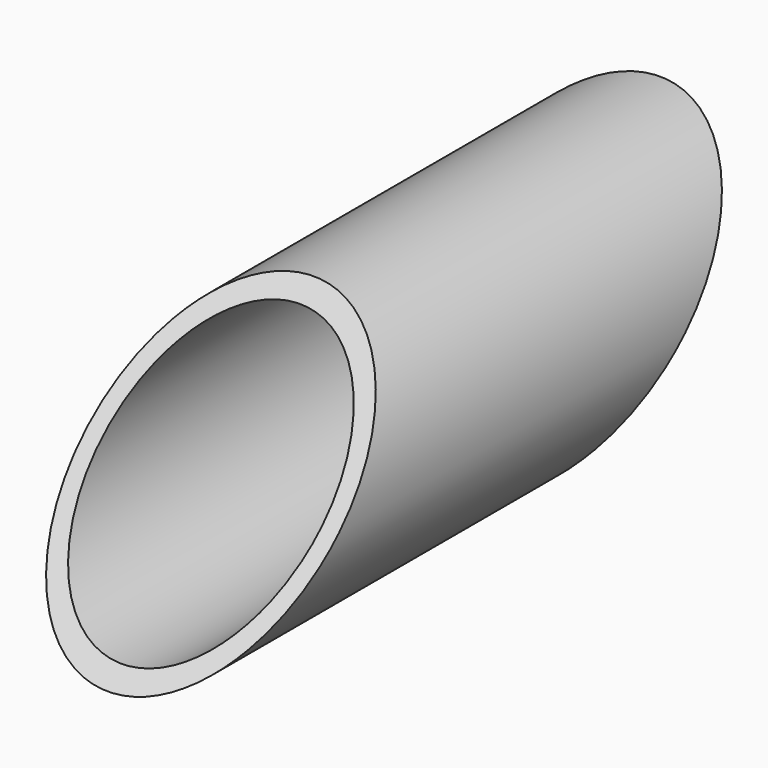
from build123d import *

# Parameters (mm, degrees)
F0_R     = 15
F0_R_2   = 13
F1_DEPTH = 100
F5_W     = 78.4293748438
F5_H     = 68.3440808207
F6_DEPTH = 25
F8_W     = 147.4837362766
F8_H     = 68.2909283787
F9_DEPTH = 35


with BuildPart() as f1:
    # F0 (on Front) → F1 (new body)
    with BuildSketch(Plane.XZ):
        Circle(F0_R)
        Circle(F0_R_2, mode=Mode.SUBTRACT)
    extrude(amount=F1_DEPTH)

    # F5 (on offset) → F6 (cut)
    with BuildSketch(Plane(origin=(-0.1664731949, -10.0254920816, 10.0241098435), x_dir=(0.9999310662, -0.0083030673, 0.0083019226), z_dir=(-0.011741501, -0.7071067812, 0.7070092907))):
        with Locations((-2.7506519109, -14.8982955143)):
            Rectangle(F5_W, F5_H)
    extrude(amount=-F6_DEPTH, mode=Mode.SUBTRACT)

    # F8 (on offset) → F9 (cut)
    with BuildSketch(Plane(origin=(-0.5816526691, -35.0287878644, 35.0239583631), x_dir=(0.9999310662, -0.0083030673, 0.0083019226), z_dir=(-0.011741501, -0.7071067812, 0.7070092907))):
        with Locations((9.9375471473, -57.1080548689)):
            Rectangle(F8_W, F8_H)
    extrude(amount=F9_DEPTH, mode=Mode.SUBTRACT)


solid = f1.part
